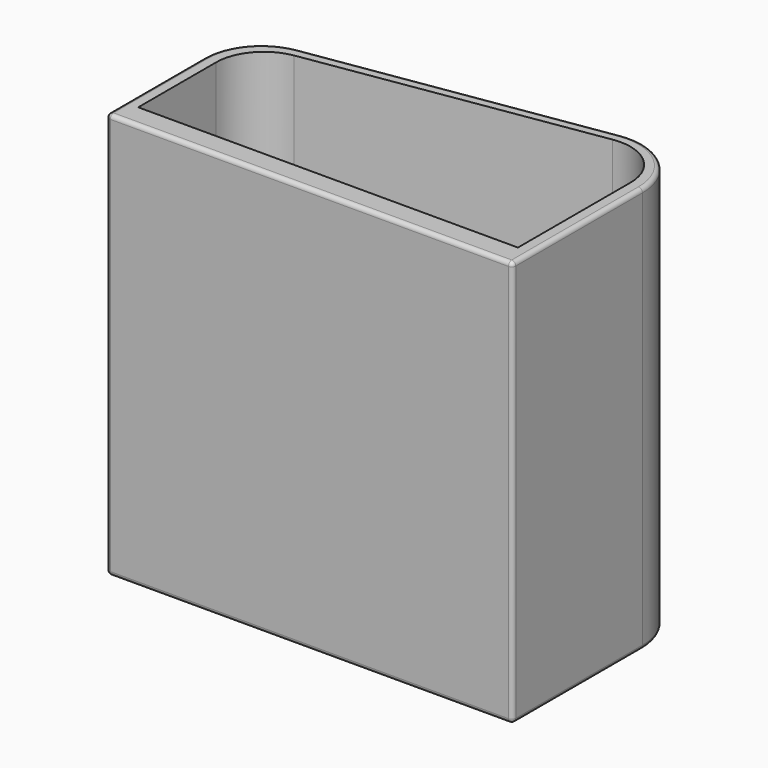
from build123d import *

# Parameters (mm, degrees)
PAD_DEPTH       = 50
POCKET_DEPTH    = 50.001
FILLET_R        = 0.5
SKETCH003_R     = 7.438429
POCKET001_DEPTH = 24.66558


with BuildPart() as part:
    # Sketch → Pad (new body)
    with BuildSketch(Plane.XY):
        with BuildLine():
            Line((0, 15), (0, 0))
            Line((0, 0), (50, 0))
            Line((50, 0), (50, 20))
            ThreePointArc((50, 20), (47.363119, 25.733162), (41.294118, 27.462185))
            Line((41.294118, 27.462185), (6, 22))
            ThreePointArc((6, 22), (1.705266, 19.609772), (0, 15))
        make_face()
    extrude(amount=PAD_DEPTH)

    # Sketch002 → Pocket (cut, through all)
    with BuildSketch(Plane.XY):
        with BuildLine():
            Line((1.617649, 14.859023), (1.617649, 2.886441))
            Line((1.617649, 2.886441), (48.358659, 2.886441))
            Line((48.358659, 2.886441), (48.358659, 20.203976))
            ThreePointArc((48.358659, 20.203976), (46.261778, 24.757846), (41.4384, 26.125203))
            Line((41.4384, 26.125203), (6.589663, 20.669917))
            ThreePointArc((6.589663, 20.669917), (3.030296, 18.682876), (1.617649, 14.859023))
        make_face()
    extrude(amount=POCKET_DEPTH, mode=Mode.SUBTRACT)

    # Fillet
    fillet_edges = [part.edges().sort_by_distance(p)[0] for p in [
        (25, 0, 50),
        (0, 7.5, 50),
        (1.705266, 19.609772, 50),
        (23.647059, 24.731092, 50),
        (47.363119, 25.733162, 50),
        (50, 10, 50),
        (50, 10, 0),
        (25, 0, 0),
        (50, 0, 25),
        (0, 0, 25),
    ]]
    fillet(fillet_edges, radius=FILLET_R)

    # Sketch003 (on Face21 of Fillet) → Pocket001 (cut, through all)
    with BuildSketch(Plane(origin=(0, 2.886441, 0), x_dir=(-1, 0, 0), z_dir=(0, 1, 0))):
        with Locations((-24.985147, 24.818342)):
            Circle(SKETCH003_R)
    extrude(amount=POCKET001_DEPTH, mode=Mode.SUBTRACT)


solid = part.part
